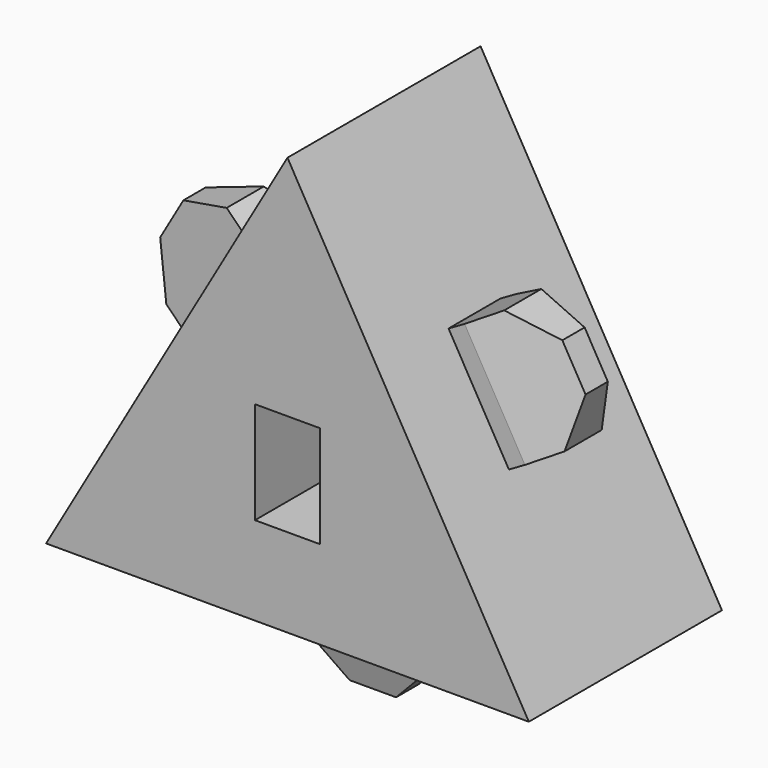
from build123d import *

# Parameters (mm, degrees)
F1_DEPTH    = 13
F2_W        = 3.5
F2_H        = 5.5
F3_DEPTH    = 13.001
F4_W        = 3.5
F4_H        = 6.5
F6_DEPTH    = 5
F5_W        = 3.5
F5_H        = 6.5
F7_DEPTH    = 5
F8_W        = 6.5
F8_H        = 3.5
F9_DEPTH    = 5
F10_SIZE2   = 1
F10_SIZE    = 4
F10_2_SIZE2 = 1
F10_2_SIZE  = 4
F10_3_SIZE2 = 1
F10_3_SIZE  = 4
F10_4_SIZE2 = 1
F10_4_SIZE  = 4
F11_SIZE2   = 4
F11_SIZE    = 1
F11_2_SIZE2 = 4
F11_2_SIZE  = 1
F12_SIZE    = 2


with BuildPart() as f1:
    # F0 (on Front) → F1 (new body)
    with BuildSketch(Plane.XZ):
        Polygon((0, 7.5055534995), (0, 22.5166604984), (-13, 0), align=None)
        Polygon((13, 0), (0, 22.5166604984), (0, 7.5055534995), align=None)
        Polygon((0, 7.5055534995), (-13, 0), (13, 0), align=None)
    extrude(amount=F1_DEPTH)

    # F2 (on face) → F3 (cut, through all)
    with BuildSketch(Plane.XZ.offset(13)):
        with Locations((0, 7.5106434524)):
            Rectangle(F2_W, F2_H)
    extrude(amount=-F3_DEPTH, mode=Mode.SUBTRACT)

    # F4 (on face) → F6 (join)
    with BuildSketch(Plane(origin=(9.75, 0, 5.6291651246), x_dir=(0, 1, 0), z_dir=(0.8660254038, 0, 0.5))):
        with Locations((-6.5, 6.5)):
            Rectangle(F4_W, F4_H)
    extrude(amount=F6_DEPTH)

    # F5 (on face) → F7 (join)
    with BuildSketch(Plane(origin=(-9.75, 0, 5.6291651246), x_dir=(0, -1, 0), z_dir=(-0.8660254038, 0, 0.5))):
        with Locations((6.5, 6.5)):
            Rectangle(F5_W, F5_H)
    extrude(amount=F7_DEPTH)

    # F8 (on face) → F9 (join)
    with BuildSketch(Plane(origin=(0, 0, 0), x_dir=(1, 0, 0), z_dir=(0, 0, -1))):
        with Locations((0, 6.5)):
            Rectangle(F8_W, F8_H)
    extrude(amount=F9_DEPTH)

    # F10
    f10_edges = [f1.edges().sort_by_distance(p)[0] for p in [
        (10.830127, -8.25, 13.75833),
    ]]
    f10_side = f1.faces().sort_by_distance((8.665064, -8.25, 12.50833))[0]
    chamfer(f10_edges, length=F10_SIZE, length2=F10_SIZE2, reference=f10_side)

    # F10#2
    f10_2_edges = [f1.edges().sort_by_distance(p)[0] for p in [
        (10.830127, -4.75, 13.75833),
    ]]
    f10_2_side = f1.faces().sort_by_distance((8.665064, -4.75, 12.50833))[0]
    chamfer(f10_2_edges, length=F10_2_SIZE, length2=F10_2_SIZE2, reference=f10_2_side)

    # F10#3
    f10_3_edges = [f1.edges().sort_by_distance(p)[0] for p in [
        (0, -4.75, -5),
    ]]
    f10_3_side = f1.faces().sort_by_distance((0, -4.75, -2.5))[0]
    chamfer(f10_3_edges, length=F10_3_SIZE, length2=F10_3_SIZE2, reference=f10_3_side)

    # F10#4
    f10_4_edges = [f1.edges().sort_by_distance(p)[0] for p in [
        (-10.830127, -4.75, 13.75833),
    ]]
    f10_4_side = f1.faces().sort_by_distance((-8.665064, -4.75, 12.50833))[0]
    chamfer(f10_4_edges, length=F10_4_SIZE, length2=F10_4_SIZE2, reference=f10_4_side)

    # F11
    f11_edges = [f1.edges().sort_by_distance(p)[0] for p in [
        (-10.830127, -8.25, 13.75833),
    ]]
    f11_side = f1.faces().sort_by_distance((-10.830127, -7, 13.75833))[0]
    chamfer(f11_edges, length=F11_SIZE, length2=F11_SIZE2, reference=f11_side)

    # F11#2
    f11_2_edges = [f1.edges().sort_by_distance(p)[0] for p in [
        (0, -8.25, -5),
    ]]
    f11_2_side = f1.faces().sort_by_distance((0, -7, -5))[0]
    chamfer(f11_2_edges, length=F11_2_SIZE, length2=F11_2_SIZE2, reference=f11_2_side)

    # F12
    f12_edges = [f1.edges().sort_by_distance(p)[0] for p in [
        (-9.205127, -6.5, 16.572913),
        (-12.455127, -6.5, 10.943748),
        (9.205127, -6.5, 16.572913),
        (12.455127, -6.5, 10.943748),
        (-3.25, -6.5, -5),
        (3.25, -6.5, -5),
    ]]
    chamfer(f12_edges, length=F12_SIZE)


solid = f1.part
